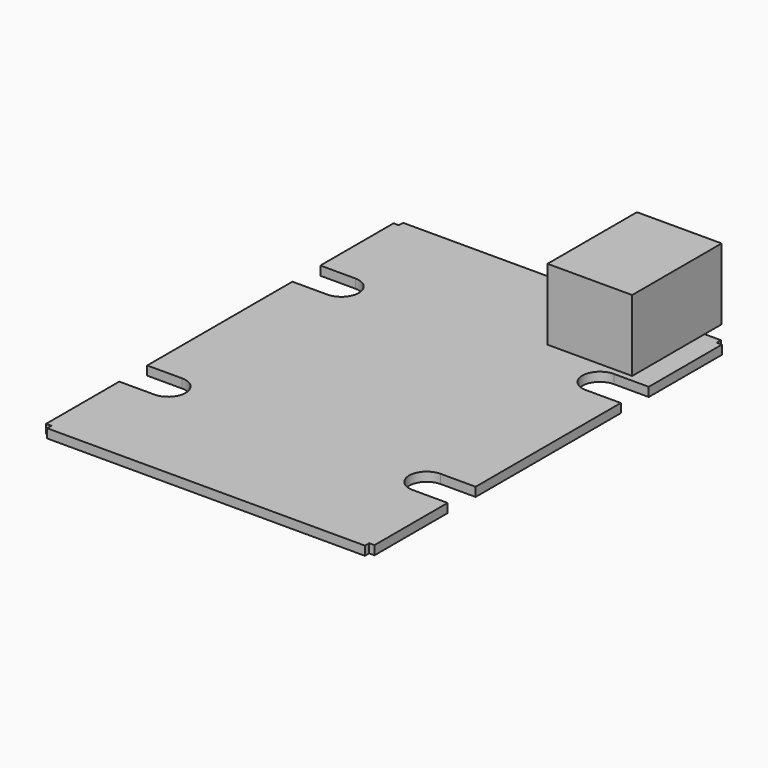
from build123d import *

# Parameters (mm, degrees)
PAD_DEPTH       = 1.7
SKETCH004_W     = 15.98
SKETCH004_H     = 21.11
PAD007_DEPTH    = 13.45
POCKET008_DEPTH = 15


with BuildPart() as part:
    # Sketch → Pad (new body)
    with BuildSketch(Plane.XY):
        with BuildLine():
            Line((0, 0), (30, 0))
            Line((30, 0), (30, 1))
            Line((30, 1), (31, 1))
            Line((31, 1), (31, 18.27))
            Line((31, 18.27), (24.4, 18.27))
            ThreePointArc((24.4, 24.87), (21.1, 21.57), (24.4, 18.27))
            Line((24.4, 24.87), (31, 24.87))
            Line((31, 24.87), (31, 59.13))
            Line((31, 59.13), (24.4, 59.13))
            ThreePointArc((24.4, 65.73), (21.1, 62.43), (24.4, 59.13))
            Line((24.4, 65.73), (31, 65.73))
            Line((31, 65.73), (31, 83))
            Line((30, 83), (31, 83))
            Line((30, 84), (30, 83))
            Line((30, 84), (0, 84))
            Line((0, 84), (-30, 84))
            Line((-30, 84), (-30, 83))
            Line((-30, 83), (-31, 83))
            Line((-31, 83), (-31, 65.73))
            Line((-31, 65.73), (-24.4, 65.73))
            ThreePointArc((-24.4, 59.13), (-21.1, 62.43), (-24.4, 65.73))
            Line((-24.4, 59.13), (-31, 59.13))
            Line((-31, 59.13), (-31, 24.87))
            Line((-31, 24.87), (-24.4, 24.87))
            ThreePointArc((-24.4, 18.27), (-21.1, 21.57), (-24.4, 24.87))
            Line((-24.4, 18.27), (-31, 18.27))
            Line((-31, 18.27), (-31, 1))
            Line((-31, 1), (-30, 1))
            Line((-30, 1), (-30, 0))
            Line((-30, 0), (0, 0))
        make_face()
    extrude(amount=PAD_DEPTH)

    # Sketch004 → Pad007 (new body)
    with BuildSketch(Plane.XY.offset(1.7)):
        with Locations((18.935, 77.465)):
            Rectangle(SKETCH004_W, SKETCH004_H)
    extrude(amount=PAD007_DEPTH)

    # Sketch019 → Pocket008 (cut)
    with BuildSketch(Plane(origin=(0, 88.02, 0), x_dir=(-1, 0, 0), z_dir=(0, 1, 0))):
        Polygon((-24.825, 12.65), (-24.825, 5.72), (-21.915, 5.72), (-21.915, 4.02), (-20.97, 4.02), (-20.97, 2.6), (-16.9, 2.6), (-16.9, 4.02), (-15.955, 4.02), (-15.955, 5.72), (-13.045, 5.72), (-13.045, 12.65), align=None)
    extrude(amount=-POCKET008_DEPTH, mode=Mode.SUBTRACT)


solid = part.part
